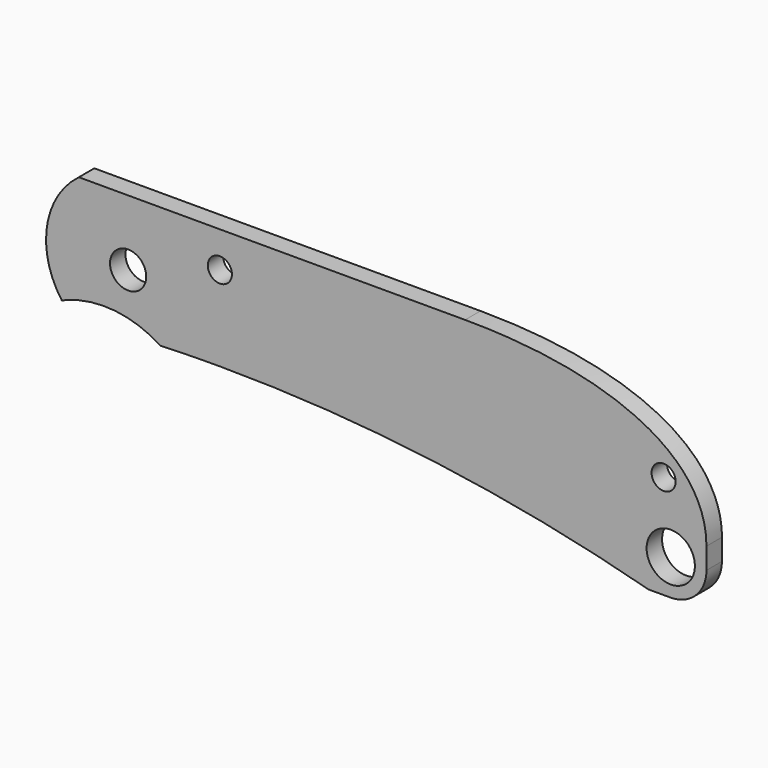
from build123d import *

# Parameters (mm, degrees)
F0_W      = 82.55
F0_H      = 23.368
F0_R      = 2.38125
F1_DEPTH  = 2.54
F2_R      = 1.5875
F3_DEPTH  = 12.7
F5_DEPTH  = 2.541
F7_DEPTH  = 2.5410001
F8_R      = 4.699
F10_DEPTH = 2.54
F11_R     = 3.175
F11_R_2   = 1.5875
F12_DEPTH = 2.5410001


with BuildPart() as f1:
    # F0 (on Front) → F1 (new body)
    with BuildSketch(Plane.XZ):
        with Locations((34.798, -3.048)):
            Rectangle(F0_W, F0_H)
        Circle(F0_R, mode=Mode.SUBTRACT)
    extrude(amount=F1_DEPTH)

    # F2 (on face) → F3 (cut, symmetric)
    with BuildSketch(Plane.XZ.offset(2.54)):
        with Locations((12.065, 3.937)):
            Circle(F2_R)
    extrude(amount=F3_DEPTH, both=True, mode=Mode.SUBTRACT)

    # F4 (on face) → F5 (cut, through all)
    with BuildSketch(Plane.XZ.offset(2.54)):
        with BuildLine():
            ThreePointArc((68.453, -14.732), (40.5068335951, -9.1204471828), (12.065, -7.239))
            ThreePointArc((12.065, -7.239), (2.7854261498, -7.4384974289), (-6.477, -8.0366210649))
            Line((-6.477, -8.0366210649), (-6.477, -14.732))
            Line((-6.477, -14.732), (68.453, -14.732))
        make_face()
        with BuildLine():
            add(Edge.make_bspline(
                [(76.073, -7.239), (76.073, 8.636), (44.323, 8.636)],
                knots=[6.1622777964, 6.1622777964, 6.1622777964, 7.2142515659, 7.2142515659, 7.2142515659], degree=2, weights=[1, 0.8648288808, 1]))
            Line((76.073, -7.239), (76.073, 8.636))
            Line((76.073, 8.636), (44.323, 8.636))
        make_face()
    extrude(amount=-F5_DEPTH, mode=Mode.SUBTRACT)

    # F6 (on face) → F7 (cut, through all)
    with BuildSketch(Plane.XZ.offset(2.54)):
        with BuildLine():
            Line((-12.7, -9.017), (6.35, -9.017))
            ThreePointArc((6.35, -9.017), (-3.175, -5.207), (-12.7, -9.017))
        make_face()
    extrude(amount=-F7_DEPTH, mode=Mode.SUBTRACT)

    # F8
    f8_edges = [f1.edges().sort_by_distance(p)[0] for p in [
        (76.073, -1.27, -14.732),
    ]]
    fillet(f8_edges, radius=F8_R)

    # F9 (on face) → F10 (join)
    with BuildSketch(Plane.XZ.offset(2.54)):
        with BuildLine():
            Line((-6.477, -5.6075295659), (-6.477, 8.636))
            ThreePointArc((-6.477, 8.636), (-10.6766730669, 1.5939501943), (-8.7169373329, -6.3676548693))
            ThreePointArc((-8.7169373329, -6.3676548693), (-7.6132715674, -5.9395508271), (-6.477, -5.6075295659))
        make_face()
    extrude(amount=-F10_DEPTH)

    # F11 (on face) → F12 (cut, through all)
    with BuildSketch(Plane.XZ.offset(2.54)):
        with Locations((71.374, -10.033)):
            Circle(F11_R)
        with Locations((70.4395100474, -1.0937360348)):
            Circle(F11_R_2)
    extrude(amount=-F12_DEPTH, mode=Mode.SUBTRACT)


solid = f1.part
